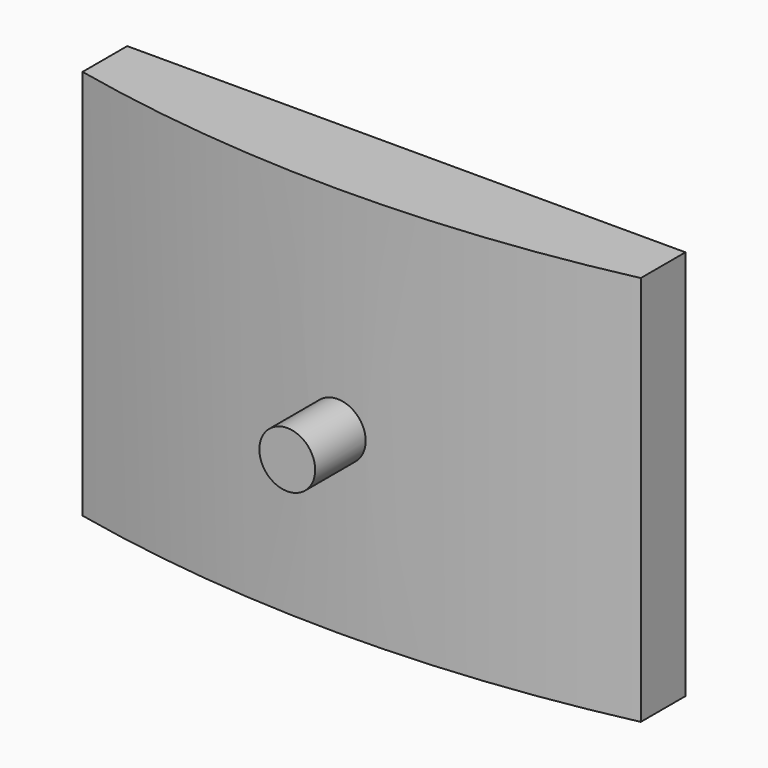
from build123d import *

# Parameters (mm, degrees)
CYLINDER157_R     = 2
CYLINDER157_DEPTH = 10
EXTRUDE038_DEPTH  = 28


with BuildPart() as cylinder157:
    # Cylinder157 → Cylinder157 (new body)
    with BuildSketch(Plane(origin=(0, -238, -147.25), x_dir=(1, 0, 0), z_dir=(0, -1, 0))):
        Circle(CYLINDER157_R)
    extrude(amount=CYLINDER157_DEPTH)


with BuildPart() as logoattach001:
    # Sketch056 → Extrude038 (new body)
    with BuildSketch(Plane.XY):
        with BuildLine():
            ThreePointArc((-20, -241.335918), (0, -243.5), (20, -241.335918))
            Line((20, -237.335918), (20, -241.335918))
            Line((-20, -237.335918), (20, -237.335918))
            Line((-20, -241.335918), (-20, -237.335918))
        make_face()
    extrude(amount=EXTRUDE038_DEPTH)


with BuildPart() as logoattach001_1:
    # Extrude038 placement: moved
    add(logoattach001.part.moved(Location((0, 0, -160))))

    # Fusion105: union Cylinder157
    add(cylinder157.part)


solid = logoattach001_1.part
